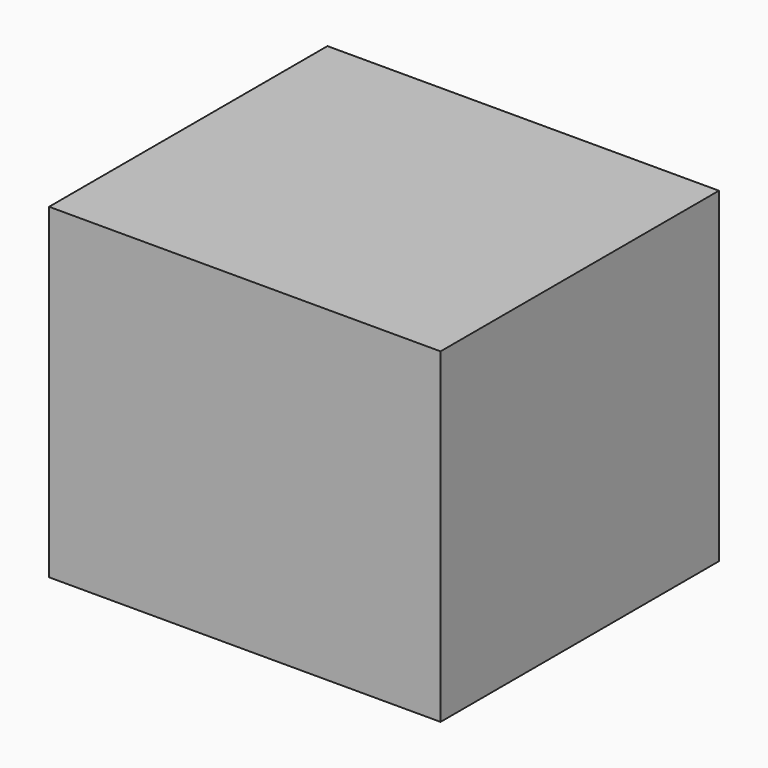
from build123d import *

# Parameters (mm, degrees)
F0_W     = 3
F0_H     = 35
F0_H_2   = 40
F1_DEPTH = 45
F0_W_2   = 90
F0_H_3   = 80
F2_DEPTH = 70
F3_W     = 90
F3_H     = 80
F4_DEPTH = 5


with BuildPart() as f1:
    # F0 (on Top) → F1 (new body)
    with BuildSketch(Plane.XY):
        with Locations((-14.3, -17.5)):
            Rectangle(F0_W, F0_H)
        with Locations((-0.7, 15)):
            Rectangle(F0_W, F0_H_2)
        with Locations((12.9, -17.5)):
            Rectangle(F0_W, F0_H)
    extrude(amount=F1_DEPTH)


with BuildPart() as f2:
    # F0 (on Top) → F2 (new body)
    with BuildSketch(Plane.XY):
        Rectangle(F0_W_2, F0_H_3)
        Polygon((28, 35), (40, 35), (40, -35), (14.4, -35), (11.4, -35), (-12.8, -35), (-15.8, -35), (-40, -35), (-40, 35), (-29.4, 35), (-29.4, -5), (-26.4, -5), (-26.4, 35), (-2.2, 35), (0.8, 35), (25, 35), (25, -5), (28, -5), align=None, mode=Mode.SUBTRACT)
    extrude(amount=F2_DEPTH)

    # F3 (on face) → F4 (join)
    with BuildSketch(Plane.XY.offset(70)):
        Rectangle(F3_W, F3_H)
    extrude(amount=F4_DEPTH)


solid = Compound([f1.part, f2.part])
